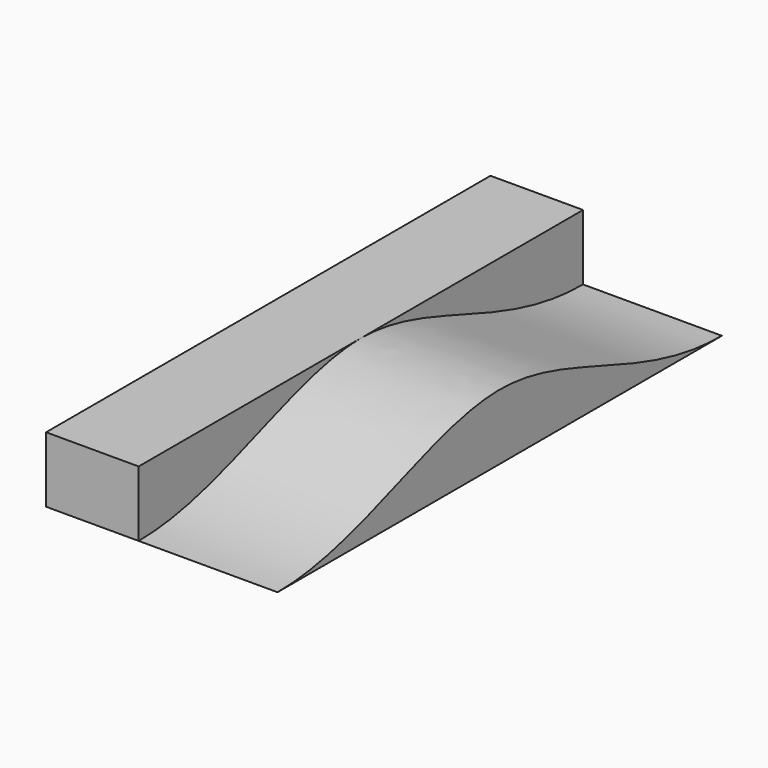
from build123d import *

# Parameters (mm, degrees)
F0_W     = 609.6
F0_H     = 3657.6
F1_DEPTH = 431.8
F3_DEPTH = 914.4


with BuildPart() as f1:
    # F0 (on Top) → F1 (new body)
    with BuildSketch(Plane.XY):
        Rectangle(F0_W, F0_H)
    extrude(amount=F1_DEPTH)

    # F2 (on face) → F3 (join)
    with BuildSketch(Plane.YZ.offset(304.8)):
        with BuildLine():
            add(Edge.make_bspline(
                [(-1828.8, 0), (-1144.0415432371, 0), (-572.02077132, 431.8000002253), (5.97e-07, 431.8)],
                knots=[0, 0, 0, 0, 0.5, 0.5, 0.5, 0.5], degree=3))
            Line((-1828.8, 0), (1828.8, 0))
            add(Edge.make_bspline(
                [(5.97e-07, 431.8), (572.0207719171, 431.7999997747), (1144.0415432371, 0), (1828.8, 0)],
                knots=[0.5, 0.5, 0.5, 0.5, 1, 1, 1, 1], degree=3))
        make_face()
    extrude(amount=F3_DEPTH)


solid = f1.part
